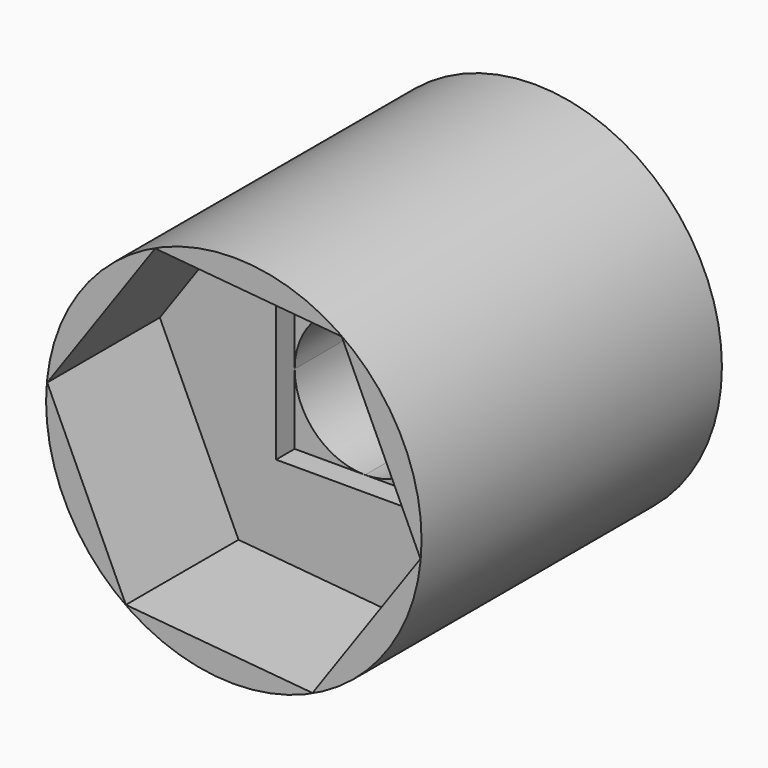
from build123d import *

# Parameters (mm, degrees)
F0_R     = 12.7
F1_DEPTH = 25.4
F3_DEPTH = 25.401
F4_DEPTH = 11.0998
F6_DEPTH = 9.525


with BuildPart() as f1:
    # F0 (on Front) → F1 (new body)
    with BuildSketch(Plane.XZ):
        Circle(F0_R)
    extrude(amount=F1_DEPTH)

    # F2 (on face) → F3 (cut, through all)
    with BuildSketch(Plane.XZ.offset(25.4)):
        with BuildLine():
            ThreePointArc((4.7625, 0), (3.367596, 3.367596), (0, 4.7625))
            ThreePointArc((0, 4.7625), (-3.367596, 3.367596), (-4.7625, 0))
            ThreePointArc((-4.7625, 0), (-3.367596, -3.367596), (0, -4.7625))
            ThreePointArc((0, -4.7625), (3.367596, -3.367596), (4.7625, 0))
        make_face()
    extrude(amount=-F3_DEPTH, mode=Mode.SUBTRACT)

    # F2 (on face) → F4 (cut)
    with BuildSketch(Plane.XZ.offset(25.4)):
        with BuildLine():
            Line((0, 4.7625), (-4.7625, 4.7625))
            Line((-4.7625, 4.7625), (-4.7625, 0))
            ThreePointArc((-4.7625, 0), (-3.367596, 3.367596), (0, 4.7625))
        make_face()
        with BuildLine():
            Line((4.7625, 4.7625), (0, 4.7625))
            ThreePointArc((0, 4.7625), (3.367596, 3.367596), (4.7625, 0))
            Line((4.7625, 0), (4.7625, 4.7625))
        make_face()
        with BuildLine():
            ThreePointArc((0, -4.7625), (-3.367596, -3.367596), (-4.7625, 0))
            Line((-4.7625, 0), (-4.7625, -4.7625))
            Line((-4.7625, -4.7625), (0, -4.7625))
        make_face()
        with BuildLine():
            Line((4.7625, -4.7625), (4.7625, 0))
            ThreePointArc((4.7625, 0), (3.367596, -3.367596), (0, -4.7625))
            Line((0, -4.7625), (4.7625, -4.7625))
        make_face()
    extrude(amount=-F4_DEPTH, mode=Mode.SUBTRACT)

    # F5 (on face) → F6 (cut)
    with BuildSketch(Plane.XZ.offset(25.4)):
        Polygon((-12.624906, 1.143208), (-7.3025, -10.361885), (5.322406, -11.505093), (12.624906, -1.143208), (7.3025, 10.361885), (-5.322406, 11.505093), align=None)
    extrude(amount=-F6_DEPTH, mode=Mode.SUBTRACT)


solid = f1.part
